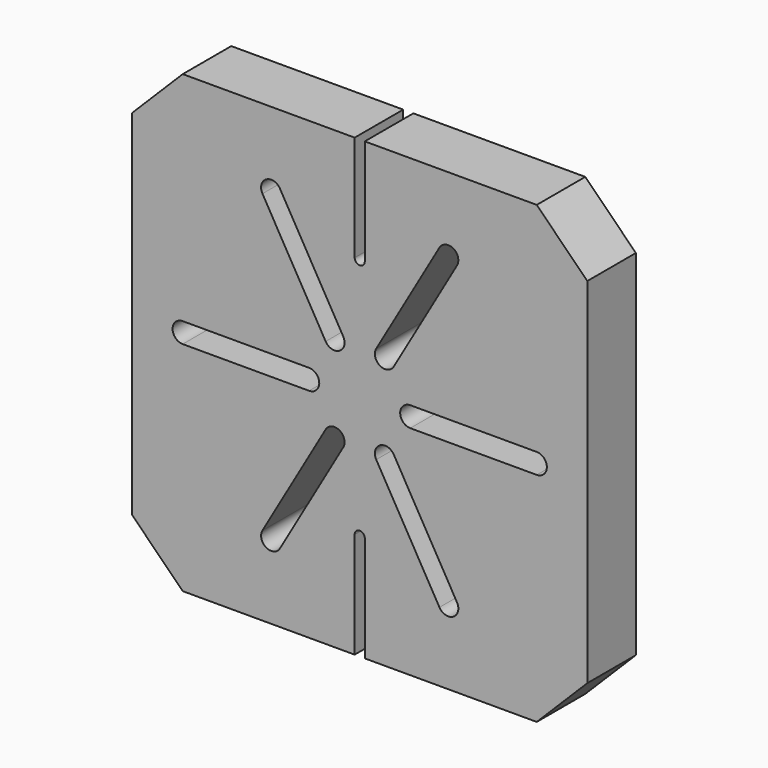
from build123d import *

# Parameters (mm, degrees)
F1_DEPTH = 12
F2_SIZE  = 10


with BuildPart() as f1:
    # F0 (on Front) → F1 (new body)
    with BuildSketch(Plane.XZ):
        with BuildLine():
            Line((1, -45), (45, -45))
            Line((45, -45), (45, 45))
            Line((45, 45), (1, 45))
            Line((1, 45), (1, 24.096539))
            ThreePointArc((1, 24.096539), (0, 23.096539), (-1, 24.096539))
            Line((-1, 24.096539), (-1, 45))
            Line((-1, 45), (-45, 45))
            Line((-45, 45), (-45, -45))
            Line((-45, -45), (-1, -45))
            Line((-1, -45), (-1, -24.096539))
            ThreePointArc((-1, -24.096539), (0, -23.096539), (1, -24.096539))
            Line((1, -24.096539), (1, -45))
        make_face()
        with BuildLine():
            ThreePointArc((-6.732051, -7.660254), (-4, -6.928203), (-3.267949, -9.660254))
            Line((-3.267949, -9.660254), (-15.767949, -31.310889))
            ThreePointArc((-15.767949, -31.310889), (-18.5, -32.04294), (-19.232051, -29.310889))
            Line((-19.232051, -29.310889), (-6.732051, -7.660254))
        make_face(mode=Mode.SUBTRACT)
        with BuildLine():
            ThreePointArc((3.267949, -9.660254), (4, -6.928203), (6.732051, -7.660254))
            Line((6.732051, -7.660254), (19.232051, -29.310889))
            ThreePointArc((19.232051, -29.310889), (18.5, -32.04294), (15.767949, -31.310889))
            Line((15.767949, -31.310889), (3.267949, -9.660254))
        make_face(mode=Mode.SUBTRACT)
        with BuildLine():
            Line((-35, 2), (-10, 2))
            ThreePointArc((-10, 2), (-8, 0), (-10, -2))
            Line((-10, -2), (-35, -2))
            ThreePointArc((-35, -2), (-37, 0), (-35, 2))
        make_face(mode=Mode.SUBTRACT)
        with BuildLine():
            ThreePointArc((-3.267949, 9.660254), (-4, 6.928203), (-6.732051, 7.660254))
            Line((-6.732051, 7.660254), (-19.232051, 29.310889))
            ThreePointArc((-19.232051, 29.310889), (-18.5, 32.04294), (-15.767949, 31.310889))
            Line((-15.767949, 31.310889), (-3.267949, 9.660254))
        make_face(mode=Mode.SUBTRACT)
        with BuildLine():
            ThreePointArc((6.732051, 7.660254), (4, 6.928203), (3.267949, 9.660254))
            Line((3.267949, 9.660254), (15.767949, 31.310889))
            ThreePointArc((15.767949, 31.310889), (18.5, 32.04294), (19.232051, 29.310889))
            Line((19.232051, 29.310889), (6.732051, 7.660254))
        make_face(mode=Mode.SUBTRACT)
        with BuildLine():
            ThreePointArc((10, -2), (8, 0), (10, 2))
            Line((10, 2), (35, 2))
            ThreePointArc((35, 2), (37, 0), (35, -2))
            Line((35, -2), (10, -2))
        make_face(mode=Mode.SUBTRACT)
    extrude(amount=F1_DEPTH)

    # F2
    f2_edges = [f1.edges().sort_by_distance(p)[0] for p in [
        (45, -6, 45),
        (45, -6, -45),
        (-45, -6, 45),
        (-45, -6, -45),
    ]]
    chamfer(f2_edges, length=F2_SIZE)


solid = f1.part
